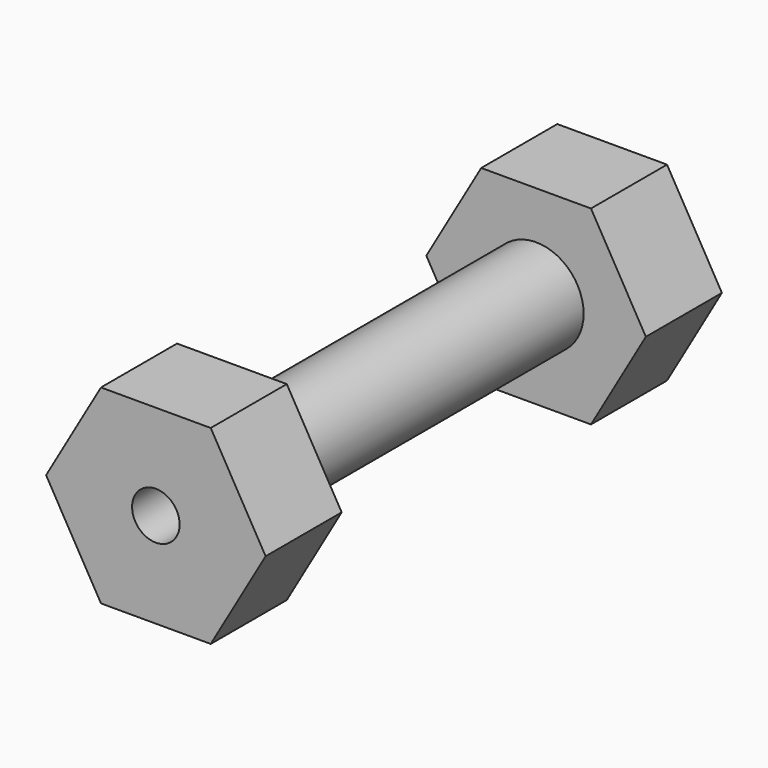
from build123d import *

# Parameters (mm, degrees)
F0_R     = 12.5
F1_DEPTH = 25
F2_R     = 12.5
F2_R_2   = 6.25
F3_DEPTH = 50
F4_R     = 12.5
F4_R_2   = 6.25
F5_DEPTH = 25


with BuildPart() as f1:
    # F0 (on Front) → F1 (new body)
    with BuildSketch(Plane.XZ):
        Polygon((-14.4337567297, -25), (14.4337567297, -25), (28.8675134595, 0), (14.4337567297, 25), (-14.4337567297, 25), (-28.8675134595, 0), align=None)
        Circle(F0_R, mode=Mode.SUBTRACT)
    extrude(amount=F1_DEPTH)


with BuildPart() as f3:
    # F2 (on face) → F3 (new body)
    with BuildSketch(Plane.XZ.offset(25)):
        Circle(F2_R)
        Circle(F2_R_2, mode=Mode.SUBTRACT)
    extrude(amount=F3_DEPTH)

    # F6: F3, F1, F5 across face


with BuildPart() as f5:
    # F4 (on face) → F5 (new body)
    with BuildSketch(Plane.XZ):
        Circle(F4_R)
        Circle(F4_R_2, mode=Mode.SUBTRACT)
    extrude(amount=F5_DEPTH)


with BuildPart() as f3_1:
    add(f3.part)
    add(f3.part.mirror(Plane.XZ.offset(75)))
    add(f1.part.mirror(Plane.XZ.offset(75)))
    add(f5.part.mirror(Plane.XZ.offset(75)))


solid = Compound([f1.part, f5.part, f3_1.part])
